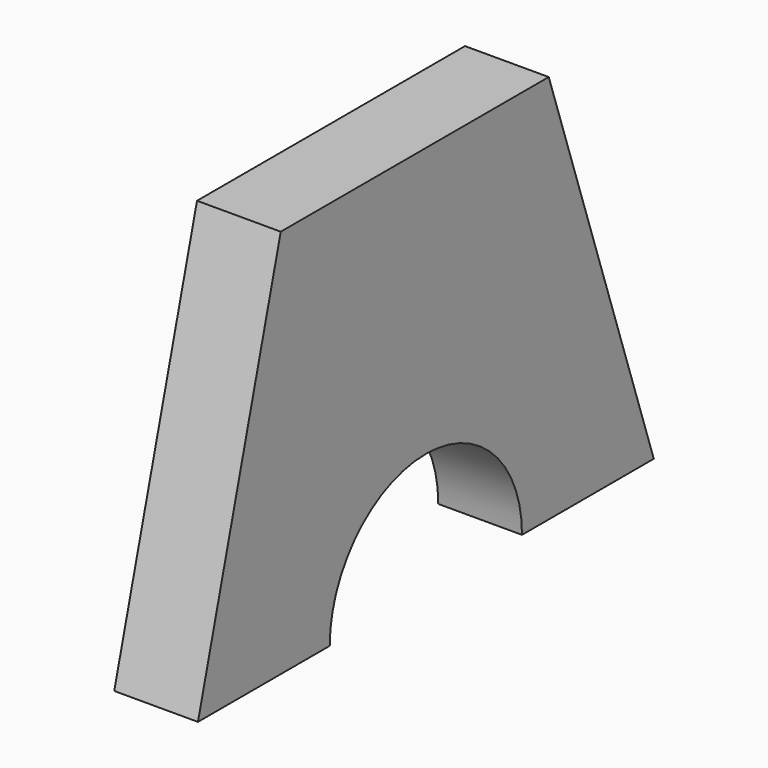
from build123d import *

# Parameters (mm, degrees)
F1_DEPTH = 25.4


with BuildPart() as f1:
    # F0 (on Right) → F1 (new body)
    with BuildSketch(Plane.YZ):
        with BuildLine():
            Line((46.839244, 48.341449), (-54.760756, 48.341449))
            Line((-54.760756, 48.341449), (-86.152115, -69.798089))
            Line((-86.152115, -69.798089), (-36.191094, -69.798089))
            ThreePointArc((-36.191094, -69.798089), (0.258513, -33.348482), (36.70812, -69.798089))
            Line((36.70812, -69.798089), (86.669141, -69.798089))
            Line((86.669141, -69.798089), (46.839244, 48.341449))
        make_face()
    extrude(amount=F1_DEPTH)


solid = f1.part
